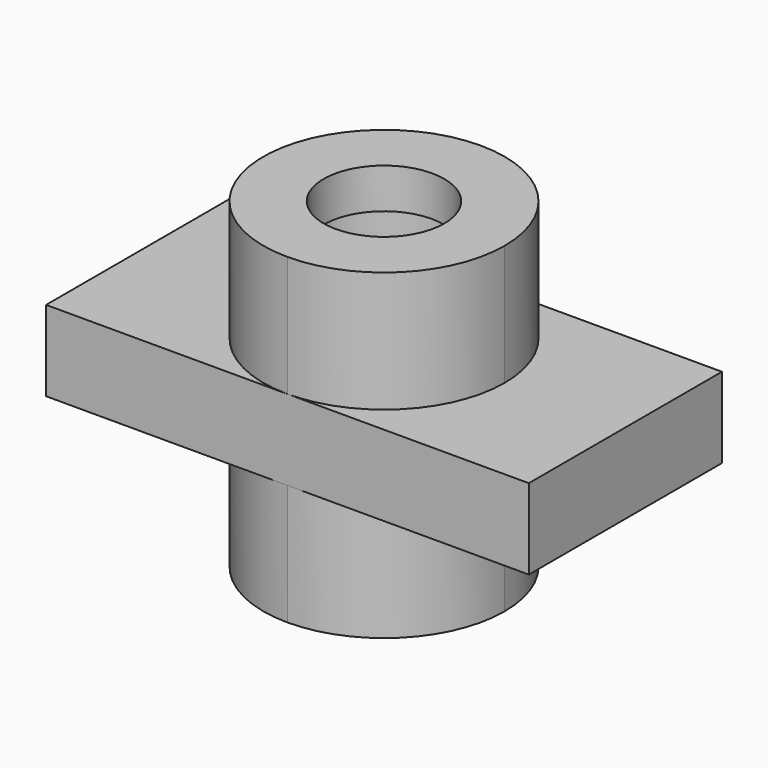
from build123d import *

# Parameters (mm, degrees)
F0_W      = 76.2
F0_H      = 12.7
F1_DEPTH  = 38.1
F4_DEPTH  = 19.05
F5_DEPTH  = 19.05
F6_R      = 9.525
F7_DEPTH  = 127
F8_R      = 12.7
F9_DEPTH  = 12.7
F10_R     = 12.7
F10_R_2   = 9.525
F11_DEPTH = 6.35


with BuildPart() as f1:
    # F0 (on Front) → F1 (new body)
    with BuildSketch(Plane.XZ):
        with Locations((38.1, 6.35)):
            Rectangle(F0_W, F0_H)
    extrude(amount=-F1_DEPTH)

    # F2 (on face) → F4 (join)
    with BuildSketch(Plane.XY.offset(12.7)):
        with BuildLine():
            ThreePointArc((38.1, 0), (51.570384, 5.579616), (57.15, 19.05))
            ThreePointArc((57.15, 19.05), (51.570384, 32.520384), (38.1, 38.1))
            ThreePointArc((38.1, 38.1), (19.05, 19.05), (38.1, 0))
        make_face()
    extrude(amount=F4_DEPTH)

    # F3 (on face) → F5 (join)
    with BuildSketch(Plane(origin=(0, 0, 0), x_dir=(1, 0, 0), z_dir=(0, 0, -1))):
        with BuildLine():
            ThreePointArc((38.1, -38.1), (51.570384, -32.520384), (57.15, -19.05))
            ThreePointArc((57.15, -19.05), (51.570384, -5.579616), (38.1, 0))
            ThreePointArc((38.1, 0), (19.05, -19.05), (38.1, -38.1))
        make_face()
    extrude(amount=F5_DEPTH)

    # F6 (on face) → F7 (cut)
    with BuildSketch(Plane.XY.offset(31.75)):
        with Locations((38.1, 19.05)):
            Circle(F6_R)
    extrude(amount=-F7_DEPTH, mode=Mode.SUBTRACT)

    # F8 (on face) → F9 (cut)
    with BuildSketch(Plane.XY.offset(31.75)):
        with Locations((38.1, 19.05)):
            Circle(F8_R)
    extrude(amount=-F9_DEPTH, mode=Mode.SUBTRACT)

    # F10 (on face) → F11 (join)
    with BuildSketch(Plane.XY.offset(31.75)):
        with Locations((38.1, 19.05)):
            Circle(F10_R)
        with Locations((38.1, 19.05)):
            Circle(F10_R_2, mode=Mode.SUBTRACT)
    extrude(amount=-F11_DEPTH)


solid = f1.part
